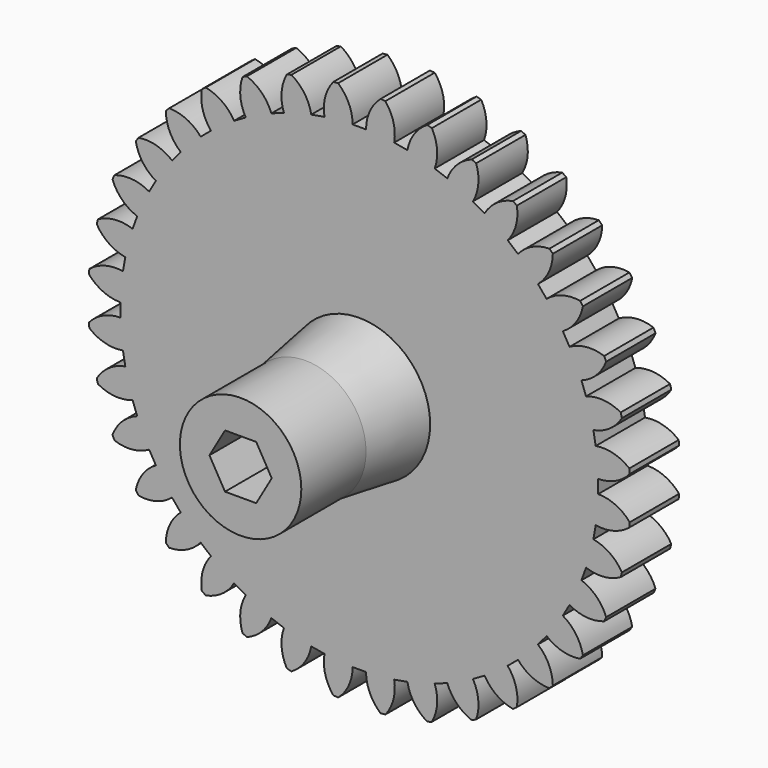
from build123d import *

# Parameters (mm, degrees)
F0_R      = 20.1041
F1_DEPTH  = 4.572
F3_DEPTH  = 4.573
F4_COUNT  = 36
F5_R      = 5.25
F7_R      = 4.5
F9_DEPTH  = 6
F10_R     = 3.25
F11_DEPTH = 8.5
F12_R     = 1.25
F13_DEPTH = 7.073
F14_R     = 1.25
F15_DEPTH = 6


with BuildPart() as f1:
    # F0 (on Front) → F1 (new body)
    with BuildSketch(Plane.XZ):
        Circle(F0_R)
    extrude(amount=F1_DEPTH)

    # F2 (on face) → F3 (cut, through all)
    with BuildSketch(Plane.XZ.offset(4.572)):
        with BuildLine():
            Line((0, 17.7018060324), (0, 20.1041))
            ThreePointArc((0, 20.1041), (-0.7879816356, 20.0886515663), (-1.5747522662, 20.042330007))
            ThreePointArc((-1.5747522662, 20.042330007), (-0.7803295834, 18.9899006334), (-0.4983237602, 17.7018060324))
            Line((-0.4983237602, 17.7018060324), (0, 17.7018060324))
        make_face()
        with BuildLine():
            ThreePointArc((1.5747522662, 20.042330007), (0.7879816356, 20.0886515663), (0, 20.1041))
            Line((0, 20.1041), (0, 17.7018060324))
            Line((0, 17.7018060324), (0.4983237602, 17.7018060324))
            ThreePointArc((0.4983237602, 17.7018060324), (0.7803295834, 18.9899006334), (1.5747522662, 20.042330007))
        make_face()
    f3 = extrude(amount=-F3_DEPTH, mode=Mode.SUBTRACT)

    # F4: F3 ×36 about axis
    f4_axis = Axis((0, 0, 0), (0, 1, 0))
    for i in range(1, F4_COUNT):
        add(f3.rotate(f4_axis, i * 360 / F4_COUNT), mode=Mode.SUBTRACT)

    # F5 (on face) → F8 section 0
    with BuildSketch(Plane.XZ.offset(4.572)):
        Circle(F5_R)
    # F7 (on offset) → F8 section 1
    with BuildSketch(Plane.XZ.offset(9.572)):
        Circle(F7_R)
    loft()

    # F7 (on offset) → F9 (join)
    with BuildSketch(Plane.XZ.offset(9.572)):
        Circle(F7_R)
    extrude(amount=F9_DEPTH)

    # F10 (on face) → F11 (cut)
    with BuildSketch(Plane(origin=(0, 0, 0), x_dir=(-1, 0, 0), z_dir=(0, 1, 0))):
        Circle(F10_R)
    extrude(amount=-F11_DEPTH, mode=Mode.SUBTRACT)

    # F12 (on face) → F13 (cut, through all)
    with BuildSketch(Plane(origin=(0, -8.5, 0), x_dir=(-1, 0, 0), z_dir=(0, 1, 0))):
        Circle(F12_R)
    extrude(amount=-F13_DEPTH, mode=Mode.SUBTRACT)

    # F14 (on face) → F15 (cut)
    with BuildSketch(Plane.XZ.offset(15.572)):
        Polygon((1.1547005384, 2), (-1.1547005384, 2), (-2.3094010768, 0), (-1.1547005384, -2), (1.1547005384, -2), (2.3094010768, 0), align=None)
        Circle(F14_R, mode=Mode.SUBTRACT)
    extrude(amount=-F15_DEPTH, mode=Mode.SUBTRACT)


solid = f1.part
